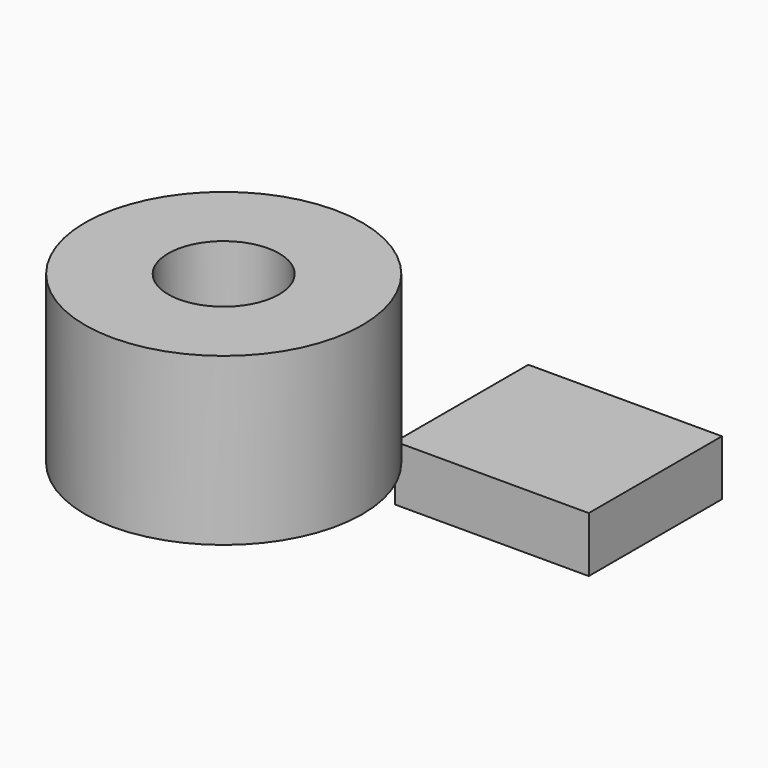
from build123d import *

# Parameters (mm, degrees)
F0_R     = 25
F0_R_2   = 10
F1_DEPTH = 30
F2_W     = 34.895231
F2_H     = 30
F3_DEPTH = 10


with BuildPart() as f1:
    # F0 (on Top) → F1 (new body)
    with BuildSketch(Plane.XY):
        Circle(F0_R)
        Circle(F0_R_2, mode=Mode.SUBTRACT)
    extrude(amount=-F1_DEPTH)


with BuildPart() as f3:
    # F2 (on face) → F3 (new body)
    with BuildSketch(Plane(origin=(0, 0, -30), x_dir=(1, 0, 0), z_dir=(0, 0, -1))):
        with Locations((32.225293, -35.164828)):
            Rectangle(F2_W, F2_H)
    extrude(amount=F3_DEPTH)


solid = Compound([f1.part, f3.part])
